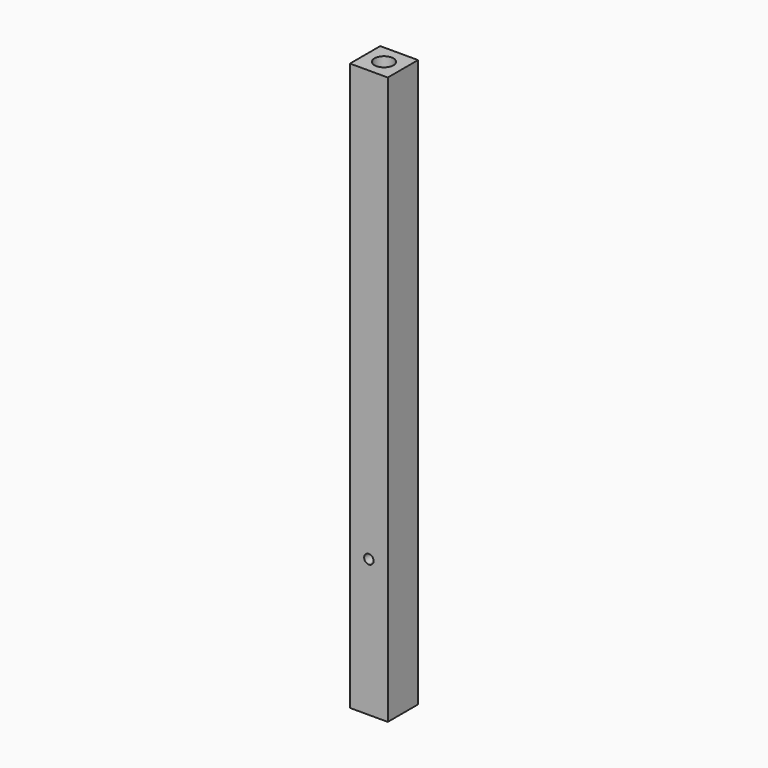
from build123d import *

# Parameters (mm, degrees)
F0_W     = 25.4
F0_H     = 381
F1_DEPTH = 25.4
F2_R     = 6.35
F3_DEPTH = 38.1
F5_DEPTH = 25.401


with BuildPart() as f1:
    # F0 (on Front) → F1 (new body)
    with BuildSketch(Plane.XZ):
        Rectangle(F0_W, F0_H)
    extrude(amount=F1_DEPTH)

    # F2 (on face) → F3 (cut)
    with BuildSketch(Plane.XY.offset(190.5)):
        with Locations((0, -12.7)):
            Circle(F2_R)
    extrude(amount=-F3_DEPTH, mode=Mode.SUBTRACT)

    # F4 (on face) → F5 (cut, through all)
    with BuildSketch(Plane.XZ.offset(25.4)):
        with BuildLine():
            ThreePointArc((0, -95.24857), (-3.175, -98.42357), (0, -101.59857))
            Line((0, -101.59857), (0, -95.24857))
        make_face()
        with BuildLine():
            Line((0, -95.24857), (0, -101.59857))
            ThreePointArc((0, -101.59857), (2.245064, -100.668634), (3.175, -98.42357))
            ThreePointArc((3.175, -98.42357), (2.245064, -96.178506), (0, -95.24857))
        make_face()
    extrude(amount=-F5_DEPTH, mode=Mode.SUBTRACT)


solid = f1.part
